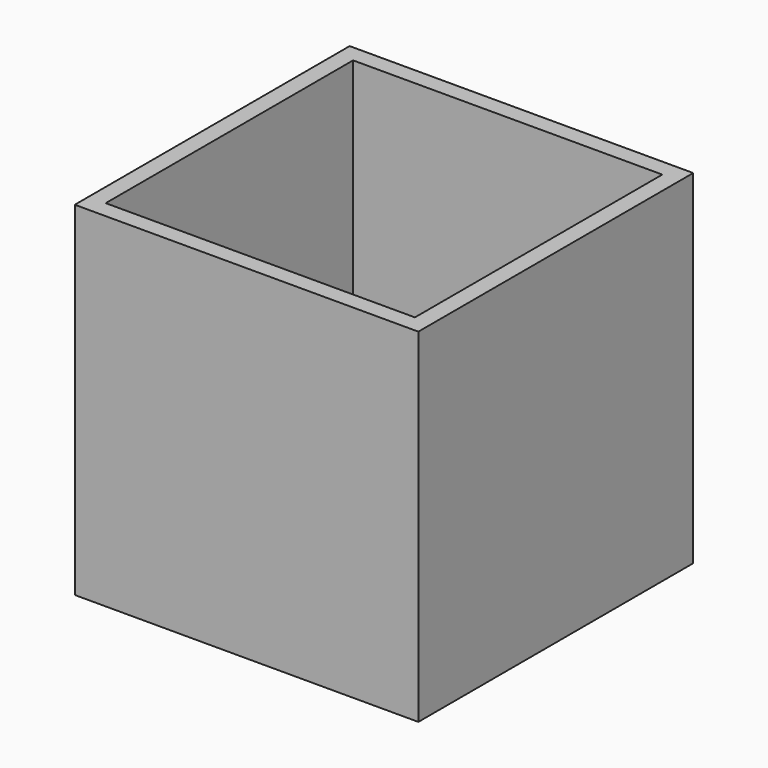
from build123d import *

# Parameters (mm, degrees)
F0_W     = 57.15
F0_H     = 57.15
F1_DEPTH = 3.175
F2_DEPTH = 63.5
F0_W_2   = 3.175
F0_H_2   = 3.175
F3_DEPTH = 63.5
F4_DEPTH = 63.5
F5_DEPTH = 63.5


with BuildPart() as f1:
    # F0 (on Top) → F1 (new body)
    with BuildSketch(Plane.XY):
        with Locations((0, -31.75)):
            Rectangle(F0_W, F0_H)
    extrude(amount=F1_DEPTH)

    # F0 (on Top) → F2 (join)
    with BuildSketch(Plane.XY):
        Polygon((31.75, 0), (-31.75, 0), (-31.75, -3.175), (-28.575, -3.175), (28.575, -3.175), (31.75, -3.175), align=None)
    extrude(amount=F2_DEPTH)

    # F0 (on Top) → F3 (join)
    with BuildSketch(Plane.XY):
        with Locations((-30.1625, -31.75)):
            Rectangle(F0_W_2, F0_H)
        with Locations((-30.1625, -61.9125)):
            Rectangle(F0_W_2, F0_H_2)
    extrude(amount=F3_DEPTH)

    # F0 (on Top) → F4 (join)
    with BuildSketch(Plane.XY):
        Polygon((31.75, -63.5), (31.75, -60.325), (28.575, -60.325), (-28.575, -60.325), (-28.575, -63.5), align=None)
    extrude(amount=F4_DEPTH)

    # F0 (on Top) → F5 (join)
    with BuildSketch(Plane.XY):
        with Locations((30.1625, -31.75)):
            Rectangle(F0_W_2, F0_H)
    extrude(amount=F5_DEPTH)


solid = f1.part
